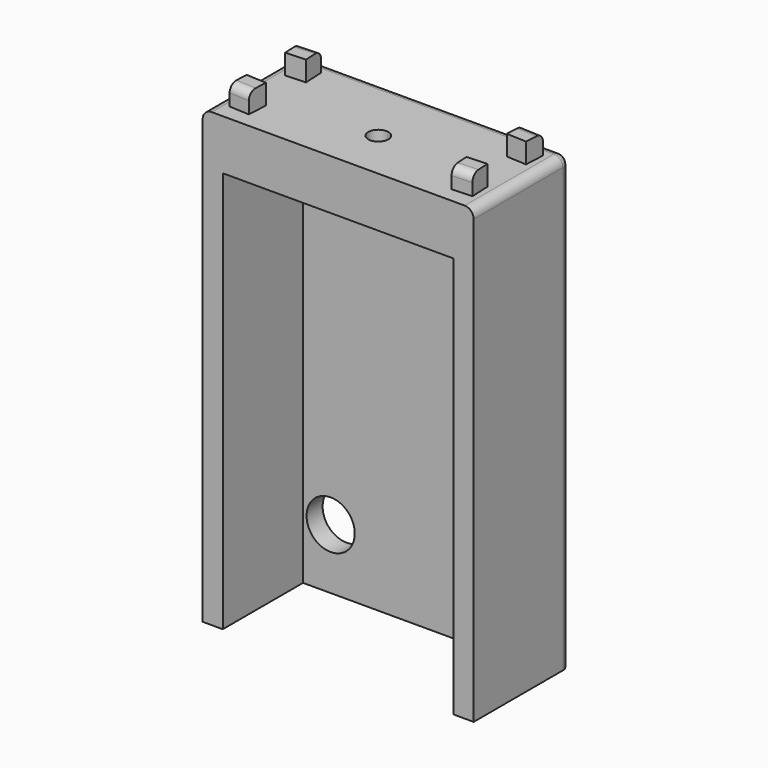
from build123d import *

# Parameters (mm, degrees)
BOX_W           = 27
BOX_H           = 12
BOX_DEPTH       = 45
SKETCH_W        = 23
SKETCH_H        = 40
POCKET_DEPTH    = 10
SKETCH002_R     = 1
POCKET001_DEPTH = 5.001
SKETCH003_R     = 3
POCKET002_DEPTH = 3.5
SKETCH004_R     = 2.4
POCKET003_DEPTH = 2.001
PAD_DEPTH       = 2
FILLET_R        = 0.9
FILLET001_R     = 0.8


with BuildPart() as part:
    # Box → Box (new body)
    with BuildSketch(Plane.XY):
        with Locations((13.5, 6)):
            Rectangle(BOX_W, BOX_H)
    extrude(amount=BOX_DEPTH)

    # Sketch (on Face3 of BaseFeature) → Pocket (cut)
    with BuildSketch(Plane.XZ):
        with Locations((13.5, 20)):
            Rectangle(SKETCH_W, SKETCH_H)
    extrude(amount=-POCKET_DEPTH, mode=Mode.SUBTRACT)

    # Sketch002 (on Face7 of Pocket) → Pocket001 (cut, through all)
    with BuildSketch(Plane(origin=(0, 0, 40), x_dir=(1, 0, 0), z_dir=(0, 0, -1))):
        with Locations((13.5, -5)):
            Circle(SKETCH002_R)
    extrude(amount=-POCKET001_DEPTH, mode=Mode.SUBTRACT)

    # Sketch003 (on Face7 of Pocket001) → Pocket002 (cut)
    with BuildSketch(Plane(origin=(0, 0, 40), x_dir=(1, 0, 0), z_dir=(0, 0, -1))):
        with Locations((13.5, -5)):
            Circle(SKETCH003_R)
    extrude(amount=-POCKET002_DEPTH, mode=Mode.SUBTRACT)

    # Sketch004 (on Face11 of Pocket002) → Pocket003 (cut, through all)
    with BuildSketch(Plane.XZ.offset(-10)):
        with Locations((4.75, 6)):
            Circle(SKETCH004_R)
        with Locations((22.25, 6)):
            Circle(SKETCH004_R)
    extrude(amount=-POCKET003_DEPTH, mode=Mode.SUBTRACT)

    # Sketch006 (on Face3 of Pocket003) → Pad (join)
    with BuildSketch(Plane.XY.offset(45)):
        Polygon((3.4, 10.497498), (1.402502, 10.397498), (1.502502, 8.4), (3.5, 8.5), align=None)
        Polygon((1.502502, 3.6), (3.5, 3.5), (3.4, 1.502502), (1.402502, 1.602502), align=None)
        Polygon((23.5, 3.5), (25.497498, 3.6), (25.597498, 1.602502), (23.6, 1.502502), align=None)
        Polygon((23.6, 10.497498), (25.597498, 10.397498), (25.497498, 8.4), (23.5, 8.5), align=None)
    extrude(amount=PAD_DEPTH)

    # Fillet
    fillet_edges = [part.edges().sort_by_distance(p)[0] for p in [
        (27, 12, 22.5),
        (27, 6, 45),
        (13.5, 12, 45),
        (0, 6, 45),
        (0, 12, 22.5),
    ]]
    fillet(fillet_edges, radius=FILLET_R)

    # Fillet001
    fillet001_edges = [part.edges().sort_by_distance(p)[0] for p in [
        (2.401251, 1.552502, 47),
        (2.401251, 10.447498, 47),
        (24.598749, 10.447498, 47),
        (24.598749, 1.552502, 47),
    ]]
    fillet(fillet001_edges, radius=FILLET001_R)


solid = part.part
